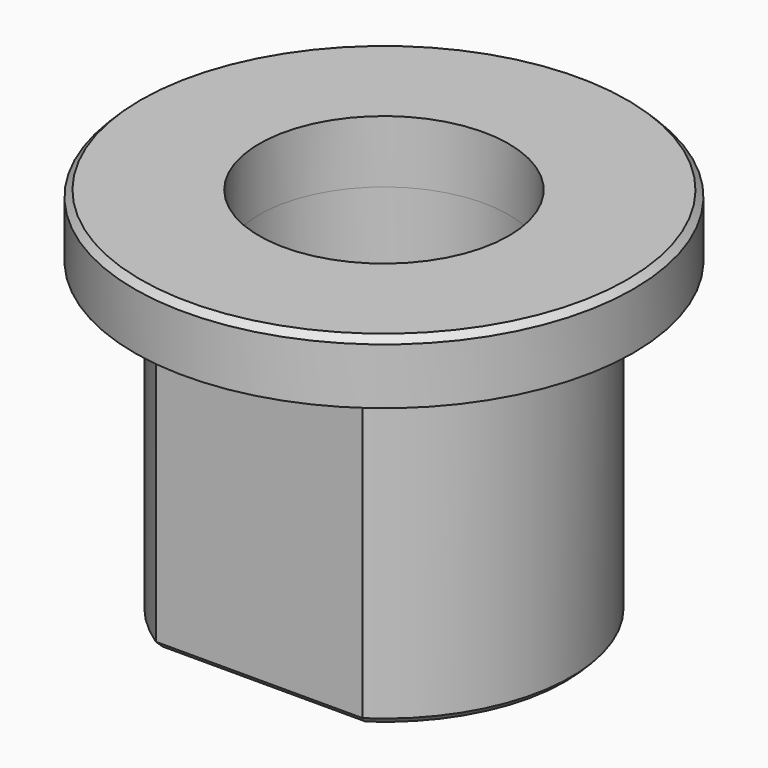
from build123d import *

# Parameters (mm, degrees)
F0_R     = 8
F0_R_2   = 4
F1_DEPTH = 2
F2_DEPTH = 10
F3_SIZE  = 0.2


with BuildPart() as f1:
    # F0 (on Top) → F1 (new body)
    with BuildSketch(Plane.XY):
        Circle(F0_R)
        with BuildLine():
            ThreePointArc((-3.3166247904, -5), (-6, 0), (-3.3166247904, 5))
            Line((-3.3166247904, 5), (3.3166247904, 5))
            ThreePointArc((3.3166247904, 5), (6, 0), (3.3166247904, -5))
            Line((3.3166247904, -5), (-3.3166247904, -5))
        make_face(mode=Mode.SUBTRACT)
        with BuildLine():
            Line((3.3166247904, 5), (-3.3166247904, 5))
            ThreePointArc((-3.3166247904, 5), (-6, 0), (-3.3166247904, -5))
            Line((-3.3166247904, -5), (3.3166247904, -5))
            ThreePointArc((3.3166247904, -5), (6, 0), (3.3166247904, 5))
        make_face()
        Circle(F0_R_2, mode=Mode.SUBTRACT)
    extrude(amount=F1_DEPTH)

    # F0 (on Top) → F2 (join)
    with BuildSketch(Plane.XY):
        with BuildLine():
            Line((3.3166247904, 5), (-3.3166247904, 5))
            ThreePointArc((-3.3166247904, 5), (-6, 0), (-3.3166247904, -5))
            Line((-3.3166247904, -5), (3.3166247904, -5))
            ThreePointArc((3.3166247904, -5), (6, 0), (3.3166247904, 5))
        make_face()
        Circle(F0_R_2, mode=Mode.SUBTRACT)
    extrude(amount=-F2_DEPTH)

    # F3
    f3_edges = [f1.edges().sort_by_distance(p)[0] for p in [
        (-8, 0, 2),
        (-6, 0, -10),
        (0, 5, -10),
        (6, 0, -10),
        (0, -5, -10),
    ]]
    chamfer(f3_edges, length=F3_SIZE)


solid = f1.part
